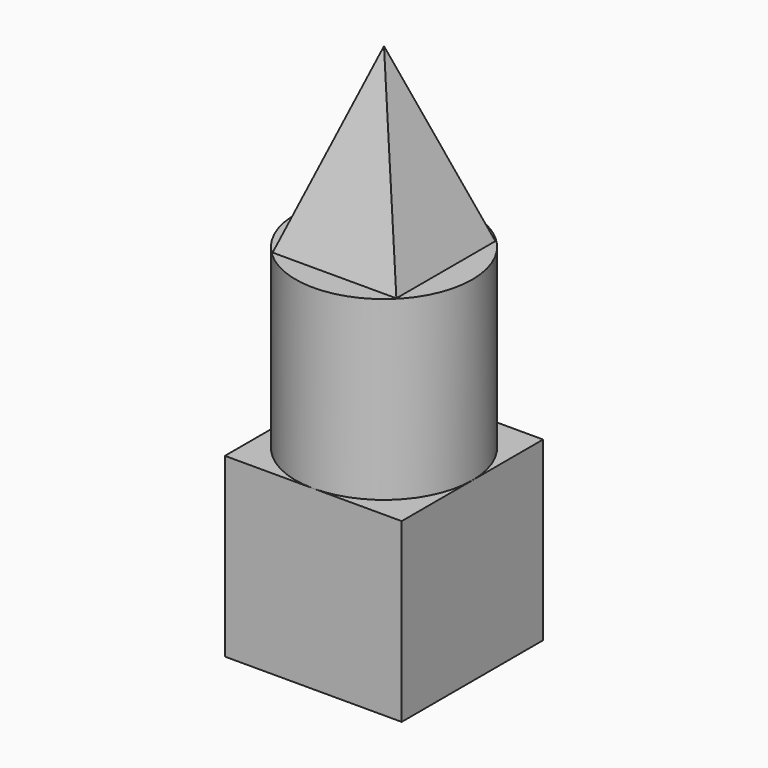
from build123d import *

# Parameters (mm, degrees)
F0_W          = 12.7
F0_H          = 12.7
F1_DEPTH      = 12.7
F2_R          = 6.35
F3_DEPTH      = 12.7
F4_W          = 12.7
F4_H          = 12.7
F5_DEPTH      = 12.7
F7_DEPTH      = 6.351
F7_DEPTH_BACK = 6.351
F9_DEPTH      = 6.351
F9_DEPTH_BACK = 6.351


with BuildPart() as f1:
    # F0 (on Top) → F1 (new body)
    with BuildSketch(Plane.XY):
        Rectangle(F0_W, F0_H)
    extrude(amount=F1_DEPTH)

    # F2 (on face) → F3 (join)
    with BuildSketch(Plane.XY.offset(12.7)):
        Circle(F2_R)
    extrude(amount=F3_DEPTH)

    # F4 (on face) → F5 (join)
    with BuildSketch(Plane.XY.offset(25.4)):
        Rectangle(F4_W, F4_H)
    extrude(amount=F5_DEPTH)

    # F6 (on Front) → F7 (cut, two sides)
    with BuildSketch(Plane.XZ) as f7_sk:
        Polygon((-4.445, 25.4), (0, 38.1), (-6.35, 38.1), (-6.35, 25.4), align=None)
        Polygon((4.445, 25.4), (6.35, 25.4), (6.35, 38.1), (0, 38.1), align=None)
    extrude(amount=-F7_DEPTH, mode=Mode.SUBTRACT)
    extrude(f7_sk.sketch, amount=F7_DEPTH_BACK, mode=Mode.SUBTRACT)

    # F8 (on Right) → F9 (cut, two sides)
    with BuildSketch(Plane.YZ) as f9_sk:
        Polygon((1.4e-09, 38.1), (-6.35, 38.1), (-6.35, 25.4), (-4.4449999986, 25.4), align=None)
        Polygon((6.35, 38.1), (1.4e-09, 38.1), (4.4450000014, 25.4), (6.35, 25.4), align=None)
    extrude(amount=-F9_DEPTH, mode=Mode.SUBTRACT)
    extrude(f9_sk.sketch, amount=F9_DEPTH_BACK, mode=Mode.SUBTRACT)


solid = f1.part
